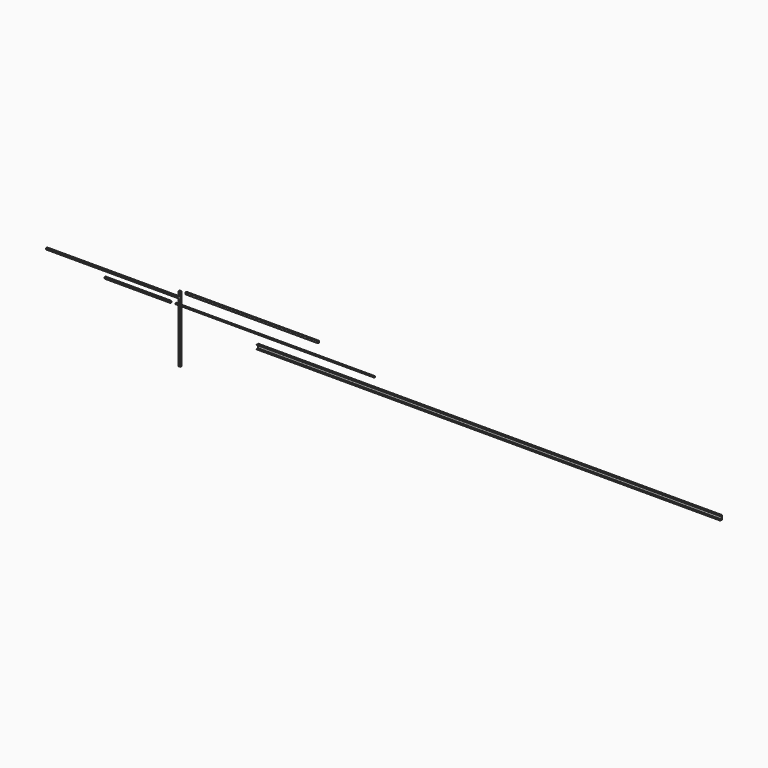
from build123d import *

# Parameters (mm, degrees)
F0_W             = 2438.4
F0_H             = 25
F1_DEPTH         = 24.74976
F2_W             = 3657.6
F2_H             = 19.05
F3_DEPTH         = 15.875
F4_W             = 2438.4
F4_H             = 21.9964
F5_DEPTH         = 33.528
F6_W             = 21.9964
F6_H             = 1219.2
F7_DEPTH         = 33.528
F8_W             = 8534.4
F8_H             = 76.2
F9_DEPTH         = 38.1
F10_W            = 67.564
F10_H            = 67.564
F11_DEPTH        = 8534.4
F14_D            = 6.7564
F14_DEPTH        = 19.685
F14_TIP          = 2.0298273432
F14_ON_F12_D     = 6.7564
F14_ON_F12_DEPTH = 19.685
F14_ON_F12_TIP   = 2.0298273432
F15_D            = 6.7564
F15_DEPTH        = 19.685
F15_TIP          = 2.0298273432
F16_D            = 6.7564
F16_DEPTH        = 19.685
F16_TIP          = 2.0298273432
F17_W            = 1219.2
F17_H            = 24.9936
F18_DEPTH        = 24.7396
F19_D            = 6.7564
F19_DEPTH        = 19.685
F19_TIP          = 2.0298273432
F20_D            = 6.7564
F20_DEPTH        = 19.685
F20_TIP          = 2.0298273432
F21_D            = 6.7564
F21_DEPTH        = 19.685
F21_TIP          = 2.0298273432
F22_D            = 6.7564
F22_DEPTH        = 19.685
F22_TIP          = 2.0298273432


with BuildPart() as f1:
    # F0 (on Top) → F1 (new body)
    with BuildSketch(Plane.XY):
        with Locations((-1219.2, 12.5)):
            Rectangle(F0_W, F0_H)
    extrude(amount=F1_DEPTH)

    # F20
    with Locations(Plane(origin=(0, 0, 0), x_dir=(1, 0, 0), z_dir=(0, 0, -1))):
        with Locations((-25.4, -12.5)):
            Hole(F20_D / 2, depth=F20_DEPTH)
            with Locations((0, 0, -(F20_DEPTH + F20_TIP / 2))):  # 118° drill point
                Cone(0, F20_D / 2, F20_TIP, mode=Mode.SUBTRACT)


with BuildPart() as f3:
    # F2 (on Top) → F3 (new body)
    with BuildSketch(Plane.XY):
        with Locations((1905, -157.5062781825)):
            Rectangle(F2_W, F2_H)
    extrude(amount=F3_DEPTH)


with BuildPart() as f5:
    # F4 (on Top) → F5 (new body)
    with BuildSketch(Plane.XY):
        with Locations((1219.2, 172.2425887634)):
            Rectangle(F4_W, F4_H)
    extrude(amount=F5_DEPTH)

    # F21
    with Locations(Plane(origin=(0, 0, 0), x_dir=(1, 0, 0), z_dir=(0, 0, -1))):
        with Locations((2413, -172.2425887634)):
            Hole(F21_D / 2, depth=F21_DEPTH)
            with Locations((0, 0, -(F21_DEPTH + F21_TIP / 2))):  # 118° drill point
                Cone(0, F21_D / 2, F21_TIP, mode=Mode.SUBTRACT)


with BuildPart() as f7:
    # F6 (on Right) → F7 (new body)
    with BuildSketch(Plane.YZ):
        with Locations((10.9982, -488.8032363863)):
            Rectangle(F6_W, F6_H)
    extrude(amount=F7_DEPTH)

    # F22
    with Locations(Plane(origin=(0, 0, 0), x_dir=(0, 1, 0), z_dir=(-1, 0, 0))):
        with Locations((10.9982, -95.3967636137)):
            Hole(F22_D / 2, depth=F22_DEPTH)
            with Locations((0, 0, -(F22_DEPTH + F22_TIP / 2))):  # 118° drill point
                Cone(0, F22_D / 2, F22_TIP, mode=Mode.SUBTRACT)


with BuildPart() as f9:
    # F8 (on Front) → F9 (new body)
    with BuildSketch(Plane.XZ):
        with Locations((5733.5563790322, -294.0629060984)):
            Rectangle(F8_W, F8_H)
    extrude(amount=F9_DEPTH)

    # F10 (on face) → F11 (cut)
    with BuildSketch(Plane.YZ.offset(10000.7563790322)):
        with Locations((-38.1, -294.0629060984)):
            Rectangle(F10_W, F10_H)
    extrude(amount=-F11_DEPTH, mode=Mode.SUBTRACT)

    # F14
    with Locations(Plane(origin=(0, 0, -332.1629060984), x_dir=(1, 0, 0), z_dir=(0, 0, -1))):
        with Locations((1491.7563790322, 19.05)):
            Hole(F14_D / 2, depth=F14_DEPTH)
            with Locations((0, 0, -(F14_DEPTH + F14_TIP / 2))):  # 118° drill point
                Cone(0, F14_D / 2, F14_TIP, mode=Mode.SUBTRACT)

    # F14 on F12
    with Locations(Plane.XY.offset(-255.9629060984)):
        with Locations((1491.7563790322, -19.05)):
            Hole(F14_ON_F12_D / 2, depth=F14_ON_F12_DEPTH)
            with Locations((0, 0, -(F14_ON_F12_DEPTH + F14_ON_F12_TIP / 2))):  # 118° drill point
                Cone(0, F14_ON_F12_D / 2, F14_ON_F12_TIP, mode=Mode.SUBTRACT)

    # F15
    with Locations(Plane(origin=(0, 0, -332.1629060984), x_dir=(1, 0, 0), z_dir=(0, 0, -1))):
        with Locations((2710.9563790322, 19.05), (5149.3563790322, 19.05), (7587.7563790322, 19.05)):
            Hole(F15_D / 2, depth=F15_DEPTH)
            with Locations((0, 0, -(F15_DEPTH + F15_TIP / 2))):  # 118° drill point
                Cone(0, F15_D / 2, F15_TIP, mode=Mode.SUBTRACT)

    # F16
    with Locations(Plane.XY.offset(-255.9629060984)):
        with Locations((1491.7563790322, -19.05), (2710.9563790322, -19.05), (5149.3563790322, -19.05), (7587.7563790322, -19.05)):
            Hole(F16_D / 2, depth=F16_DEPTH)
            with Locations((0, 0, -(F16_DEPTH + F16_TIP / 2))):  # 118° drill point
                Cone(0, F16_D / 2, F16_TIP, mode=Mode.SUBTRACT)


with BuildPart() as f18:
    # F17 (on Top) → F18 (new body)
    with BuildSketch(Plane.XY):
        with Locations((-609.6, -171.0249129638)):
            Rectangle(F17_W, F17_H)
    extrude(amount=F18_DEPTH)

    # F19
    with Locations(Plane(origin=(0, 0, 0), x_dir=(1, 0, 0), z_dir=(0, 0, -1))):
        with Locations((-25.4, 171.0249129638)):
            Hole(F19_D / 2, depth=F19_DEPTH)
            with Locations((0, 0, -(F19_DEPTH + F19_TIP / 2))):  # 118° drill point
                Cone(0, F19_D / 2, F19_TIP, mode=Mode.SUBTRACT)


solid = Compound([f1.part, f3.part, f5.part, f7.part, f9.part, f18.part])
